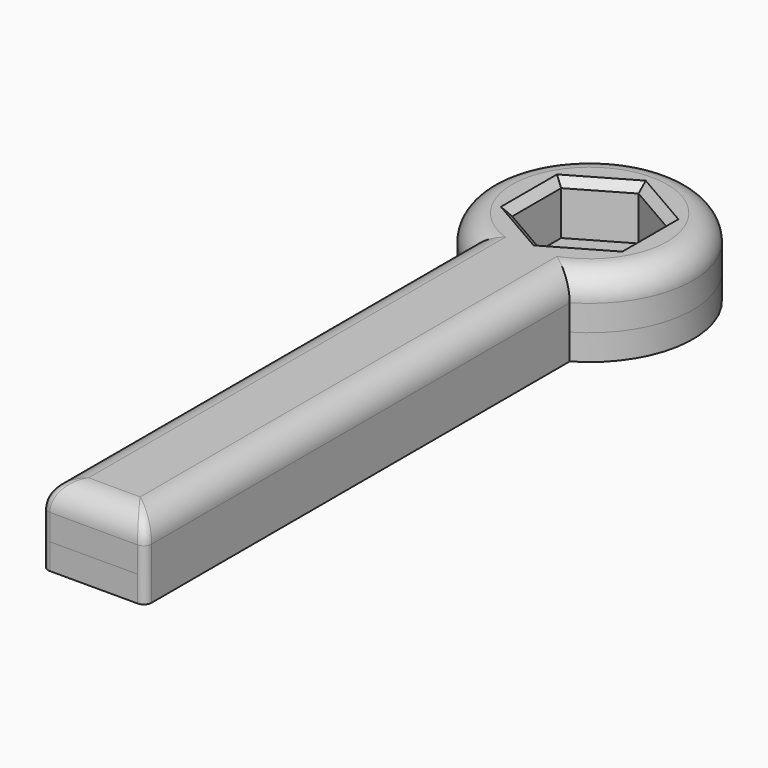
from build123d import *

# Parameters (mm, degrees)
PAD_DEPTH    = 2
PAD001_DEPTH = 1
SKETCH002_R  = 1.3
POCKET_DEPTH = 1.001
FILLET_R     = 1
FILLET001_R  = 0.3
FILLET002_R  = 0.3
CHAMFER_SIZE = 0.3


with BuildPart() as part:
    # Sketch → Pad (new body)
    with BuildSketch(Plane.XY):
        with BuildLine():
            ThreePointArc((2, -3.464102), (0, 4), (-2, -3.464102))
            Line((-2, -24), (-2, -3.464102))
            Line((2, -24), (-2, -24))
            Line((2, -3.464102), (2, -24))
        make_face()
        Polygon((0, 2.367136), (-2.05, 1.183568), (-2.05, -1.183568), (0, -2.367136), (2.05, -1.183568), (2.05, 1.183568), align=None, mode=Mode.SUBTRACT)
    extrude(amount=PAD_DEPTH)

    # Sketch001 (on Face11 of Pad) → Pad001 (join)
    with BuildSketch(Plane(origin=(0, 0, 0), x_dir=(1, 0, 0), z_dir=(0, 0, -1))):
        with BuildLine():
            ThreePointArc((-2, 3.464102), (0, -4), (2, 3.464102))
            Line((2, 3.464102), (2, 24))
            Line((2, 24), (-2, 24))
            Line((-2, 24), (-2, 3.464102))
        make_face()
    extrude(amount=PAD001_DEPTH)

    # Sketch002 (on Face17 of Pad001) → Pocket (cut, through all)
    with BuildSketch(Plane.XY):
        Circle(SKETCH002_R)
    extrude(amount=-POCKET_DEPTH, mode=Mode.SUBTRACT)

    # Fillet
    fillet_edges = [part.edges().sort_by_distance(p)[0] for p in [
        (2, -13.732051, 2),
        (0, -24, 2),
        (-2, -13.732051, 2),
        (0, 4, 2),
    ]]
    fillet(fillet_edges, radius=FILLET_R)

    # Fillet001
    fillet001_edges = [part.edges().sort_by_distance(p)[0] for p in [
        (2, -24, 0.5),
        (2, -24, -0.5),
    ]]
    fillet(fillet001_edges, radius=FILLET001_R)

    # Fillet002
    fillet002_edges = [part.edges().sort_by_distance(p)[0] for p in [
        (-2, -24, 0.5),
        (-2, -24, -0.5),
    ]]
    fillet(fillet002_edges, radius=FILLET002_R)

    # Chamfer
    chamfer_edges = [part.edges().sort_by_distance(p)[0] for p in [
        (-2.05, 0, 2),
        (-1.025, 1.775352, 2),
        (1.025, 1.775352, 2),
        (2.05, 0, 2),
        (1.025, -1.775352, 2),
        (-1.025, -1.775352, 2),
    ]]
    chamfer(chamfer_edges, length=CHAMFER_SIZE)


solid = part.part
